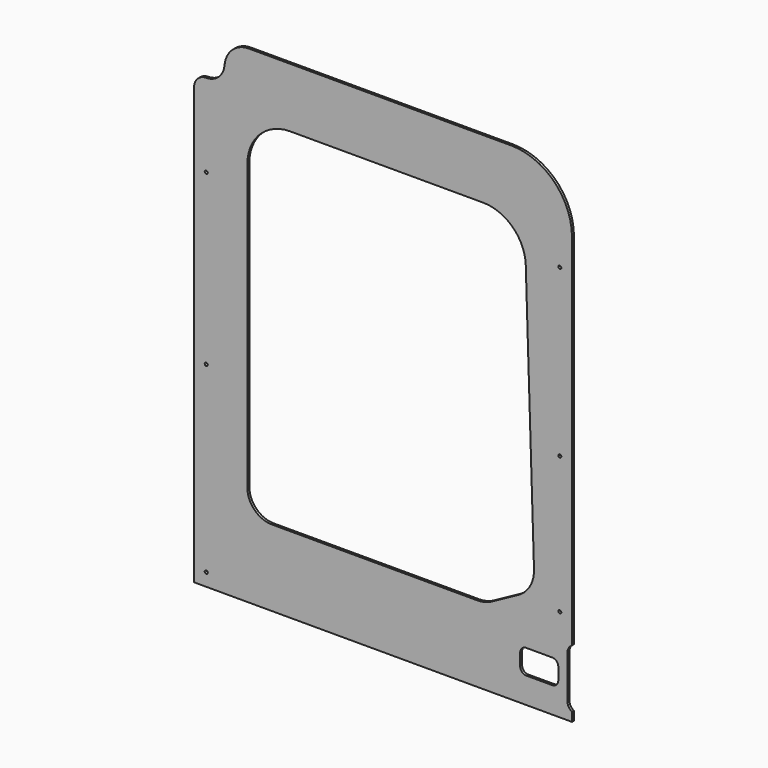
from build123d import *

# Parameters (mm, degrees)
F0_W      = 787.4
F0_H      = 1016
F1_DEPTH  = 5.08
F3_DEPTH  = 5.081
F5_DEPTH  = 5.081
F7_DEPTH  = 5.081
F9_DEPTH  = 5.081
F11_DEPTH = 5.081
F12_DEPTH = 25.4
F14_DEPTH = 5.081
F16_DEPTH = 5.081
F17_R     = 3.175
F18_DEPTH = 5.081


with BuildPart() as f1:
    # F0 (on Front) → F1 (new body)
    with BuildSketch(Plane.XZ):
        with Locations((0.161311, 159.993043)):
            Rectangle(F0_W, F0_H)
    extrude(amount=F1_DEPTH)

    # F2 (on face) → F3 (cut, through all)
    with BuildSketch(Plane.XZ.offset(5.08)):
        with BuildLine():
            Line((352.586311, -243.231957), (298.611311, -243.231957))
            ThreePointArc((298.611311, -243.231957), (289.631055, -246.951701), (285.911311, -255.931957))
            Line((285.911311, -255.931957), (285.911311, -281.331957))
            ThreePointArc((285.911311, -281.331957), (289.631055, -290.312213), (298.611311, -294.031957))
            Line((298.611311, -294.031957), (352.586311, -294.031957))
            ThreePointArc((352.586311, -294.031957), (361.566567, -290.312213), (365.286311, -281.331957))
            Line((365.286311, -281.331957), (365.286311, -255.931957))
            ThreePointArc((365.286311, -255.931957), (361.566567, -246.951701), (352.586311, -243.231957))
        make_face()
    extrude(amount=-F3_DEPTH, mode=Mode.SUBTRACT)

    # F4 (on face) → F5 (cut, through all)
    with BuildSketch(Plane.XZ.offset(5.08)):
        with BuildLine():
            ThreePointArc((403.386311, -205.131957), (389.915926, -210.711573), (384.336311, -224.181957))
            Line((384.336311, -224.181957), (384.336311, -313.081957))
            ThreePointArc((384.336311, -313.081957), (389.915926, -326.552341), (403.386311, -332.131957))
            Line((403.386311, -332.131957), (403.386311, -205.131957))
        make_face()
    extrude(amount=-F5_DEPTH, mode=Mode.SUBTRACT)

    # F6 (on face) → F7 (cut, through all)
    with BuildSketch(Plane.XZ.offset(5.08)):
        with BuildLine():
            Line((208.69992, 544.168043), (-193.513689, 544.168043))
            ThreePointArc((-193.513689, 544.168043), (-256.375482, 518.129836), (-282.413689, 455.268043))
            Line((-282.413689, 455.268043), (-282.413689, -138.456957))
            ThreePointArc((-282.413689, -138.456957), (-267.534714, -174.377981), (-231.613689, -189.256957))
            Line((-231.613689, -189.256957), (196.694191, -189.256957))
            ThreePointArc((196.694191, -189.256957), (212.384245, -187.288024), (227.101301, -181.503326))
            Line((227.101301, -181.503326), (281.64154, -151.754104))
            ThreePointArc((281.64154, -151.754104), (306.334633, -127.570652), (314.703824, -94.036418))
            Line((314.703824, -94.036418), (297.557071, 458.027888))
            ThreePointArc((297.557071, 458.027888), (270.578268, 519.098131), (208.69992, 544.168043))
        make_face()
    extrude(amount=-F7_DEPTH, mode=Mode.SUBTRACT)

    # F8 (on face) → F9 (cut, through all)
    with BuildSketch(Plane.XZ.offset(5.08)):
        with BuildLine():
            Line((-330.038689, 667.993043), (-393.538689, 667.993043))
            Line((-393.538689, 667.993043), (-393.538689, 585.443043))
            Line((-393.538689, 585.443043), (-368.138689, 585.443043))
            ThreePointArc((-368.138689, 585.443043), (-341.197921, 596.602275), (-330.038689, 623.543043))
            Line((-330.038689, 623.543043), (-330.038689, 667.993043))
        make_face()
    extrude(amount=-F9_DEPTH, mode=Mode.SUBTRACT)

    # F10 (on face) → F11 (cut, through all)
    with BuildSketch(Plane.XZ.offset(5.08)):
        with BuildLine():
            ThreePointArc((-330.038689, 617.193043), (-315.159714, 653.114068), (-279.238689, 667.993043))
            Line((-279.238689, 667.993043), (-330.038689, 667.993043))
            Line((-330.038689, 667.993043), (-330.038689, 617.193043))
        make_face()
    extrude(amount=-F11_DEPTH, mode=Mode.SUBTRACT)

    # F10 (on face) → F12 (cut)
    with BuildSketch(Plane.XZ.offset(5.08)):
        with BuildLine():
            ThreePointArc((-330.038689, 617.193043), (-315.159714, 653.114068), (-279.238689, 667.993043))
            Line((-279.238689, 667.993043), (-330.038689, 667.993043))
            Line((-330.038689, 667.993043), (-330.038689, 617.193043))
        make_face()
    extrude(amount=-F12_DEPTH, mode=Mode.SUBTRACT)

    # F13 (on face) → F14 (cut, through all)
    with BuildSketch(Plane.XZ.offset(5.08)):
        with BuildLine():
            ThreePointArc((-393.538689, 560.043043), (-386.099202, 578.003555), (-368.138689, 585.443043))
            Line((-368.138689, 585.443043), (-393.538689, 585.443043))
            Line((-393.538689, 585.443043), (-393.538689, 560.043043))
        make_face()
    extrude(amount=-F14_DEPTH, mode=Mode.SUBTRACT)

    # F15 (on face) → F16 (cut, through all)
    with BuildSketch(Plane.XZ.offset(5.08)):
        with BuildLine():
            ThreePointArc((266.861311, 667.993043), (356.663872, 630.795604), (393.861311, 540.993043))
            Line((393.861311, 540.993043), (393.861311, 667.993043))
            Line((393.861311, 667.993043), (266.861311, 667.993043))
        make_face()
    extrude(amount=-F16_DEPTH, mode=Mode.SUBTRACT)

    # F17 (on face) → F18 (cut, through all)
    with BuildSketch(Plane.XZ.offset(5.08)):
        with Locations((368.461311, 477.493043)):
            Circle(F17_R)
        with Locations((368.461311, 131.418043)):
            Circle(F17_R)
        with Locations((368.461311, -154.331957)):
            Circle(F17_R)
        with Locations((-368.138689, -321.019457)):
            Circle(F17_R)
        with Locations((-368.138689, 59.980543)):
            Circle(F17_R)
        with Locations((-368.138689, 412.405543)):
            Circle(F17_R)
    extrude(amount=-F18_DEPTH, mode=Mode.SUBTRACT)


solid = f1.part
